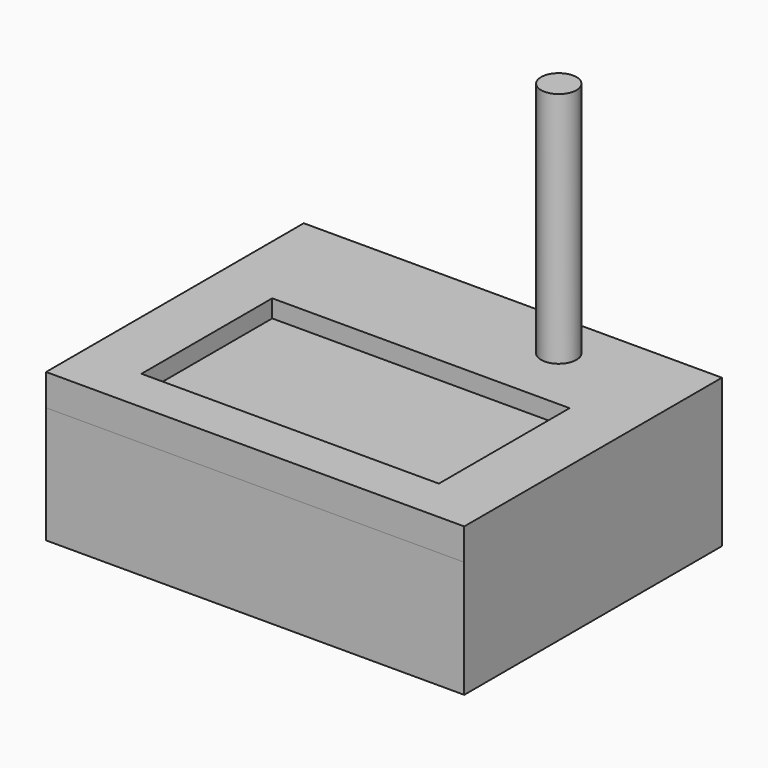
from build123d import *

# Parameters (mm, degrees)
F0_W     = 2997.2
F0_H     = 2308.739531
F1_DEPTH = 226.06
F2_W     = 2131.475747
F2_H     = 1171.447754
F3_DEPTH = 127
F4_R     = 127
F5_DEPTH = 1701.8
F6_W     = 2997.2
F6_H     = 836.795628
F7_DEPTH = 2308.739528


with BuildPart() as f1:
    # F0 (on Top) → F1 (new body)
    with BuildSketch(Plane.XY):
        with Locations((0, 252.161131)):
            Rectangle(F0_W, F0_H)
    extrude(amount=F1_DEPTH)

    # F2 (on face) → F3 (cut)
    with BuildSketch(Plane.XY.offset(226.06)):
        with Locations((-2.206052, 0)):
            Rectangle(F2_W, F2_H)
    extrude(amount=-F3_DEPTH, mode=Mode.SUBTRACT)

    # F4 (on face) → F5 (join)
    with BuildSketch(Plane.XY.offset(226.06)):
        with Locations((601.014733, 1066.925883)):
            Circle(F4_R)
    extrude(amount=F5_DEPTH)

    # F6 (on face) → F7 (join)
    with BuildSketch(Plane.XZ.offset(902.208635)):
        with Locations((0, -418.397814)):
            Rectangle(F6_W, F6_H)
    extrude(amount=-F7_DEPTH)


solid = f1.part
